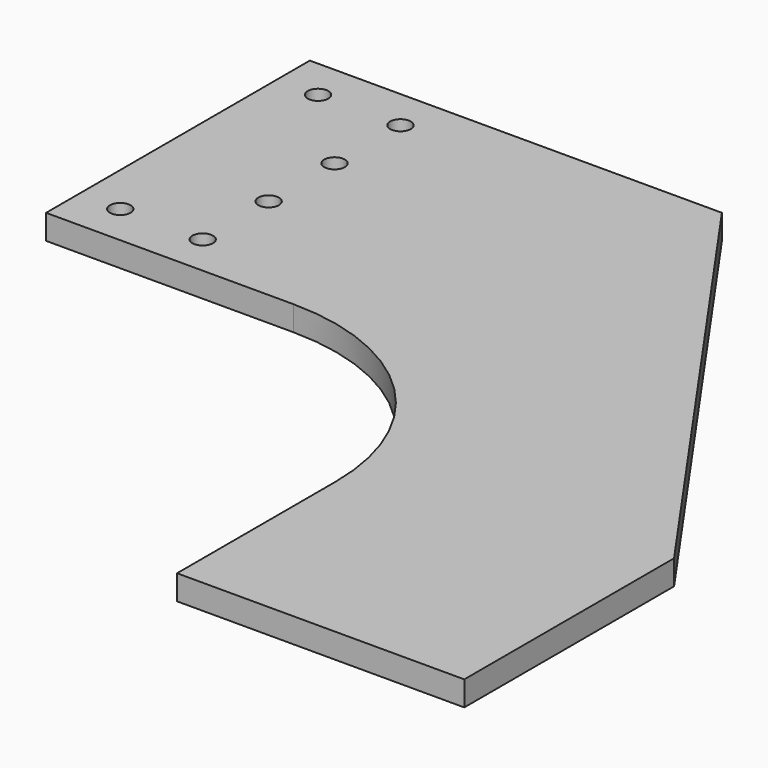
from build123d import *

# Parameters (mm, degrees)
SKETCH_R  = 2.5
PAD_DEPTH = 6


with BuildPart() as part:
    # Sketch → Pad (new body)
    with BuildSketch(Plane.XY):
        with BuildLine():
            Line((181.480679, 0), (181.480679, 63.633531))
            Line((181.480679, 63.633531), (100, 180))
            Line((100, 180), (0, 180))
            Line((0, 180), (0, 100))
            Line((0, 100), (60, 100))
            ThreePointArc((111.77515, 48.22485), (96.61056, 84.83541), (60, 100))
            Line((111.77515, 48.22485), (111.77515, 0))
            Line((111.77515, 0), (181.480679, 0))
        make_face()
        with Locations((10, 170)):
            Circle(SKETCH_R, mode=Mode.SUBTRACT)
        with Locations((30, 170)):
            Circle(SKETCH_R, mode=Mode.SUBTRACT)
        with Locations((30, 150)):
            Circle(SKETCH_R, mode=Mode.SUBTRACT)
        with Locations((30, 130)):
            Circle(SKETCH_R, mode=Mode.SUBTRACT)
        with Locations((30, 110)):
            Circle(SKETCH_R, mode=Mode.SUBTRACT)
        with Locations((10, 110)):
            Circle(SKETCH_R, mode=Mode.SUBTRACT)
    extrude(amount=PAD_DEPTH)


solid = part.part
